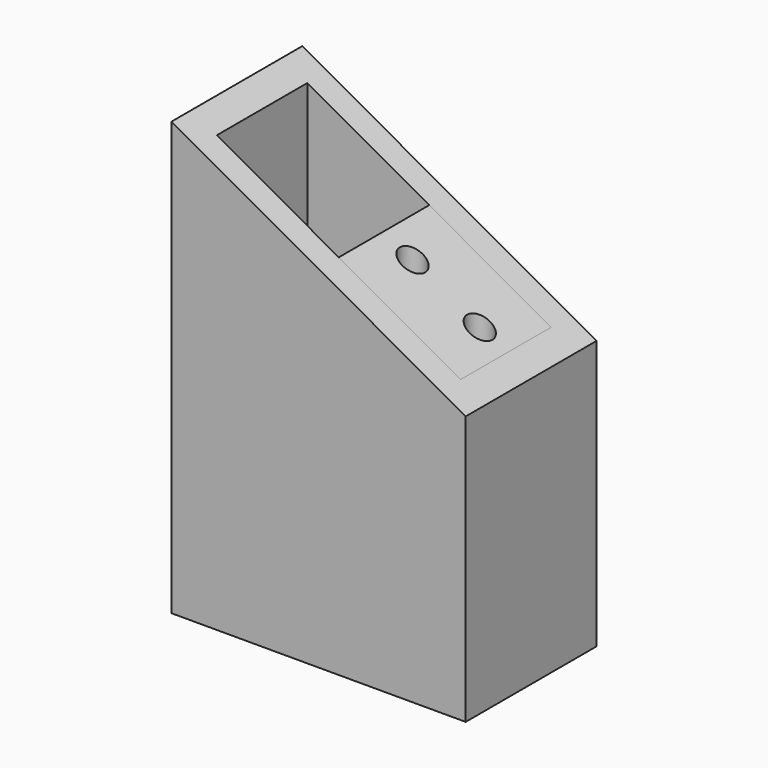
from build123d import *

# Parameters (mm, degrees)
F0_W     = 35
F0_H     = 19.45
F0_W_2   = 29
F0_H_2   = 13.45
F1_DEPTH = 51.5
F3_DEPTH = 25
F4_W     = 16.598594
F4_H     = 13.45
F4_R     = 1.5
F5_DEPTH = 3
F6_R     = 1.5
F7_DEPTH = 46.3


with BuildPart() as f1:
    # F0 (on Top) → F1 (new body)
    with BuildSketch(Plane.XY):
        with Locations((-37.743293, 0.261565)):
            Rectangle(F0_W, F0_H)
        with Locations((-37.743293, 0.261565)):
            Rectangle(F0_W_2, F0_H_2, mode=Mode.SUBTRACT)
    extrude(amount=F1_DEPTH)

    # F2 (on face) → F3 (cut)
    with BuildSketch(Plane.XZ.offset(9.463435)):
        Polygon((-20.243293, 51.5), (-55.243293, 51.5), (-20.243293, 32), align=None)
    extrude(amount=-F3_DEPTH, mode=Mode.SUBTRACT)

    # F4 (on face) → F5 (join)
    with BuildSketch(Plane(origin=(8.810147, 0, 15.813084), x_dir=(0.873568, 0, -0.486702), z_dir=(0.486702, 0, 0.873568))):
        with Locations((-44.99185, 0.261565)):
            Rectangle(F4_W, F4_H)
        with Locations((-49.282474, 0.261565)):
            Circle(F4_R, mode=Mode.SUBTRACT)
        with Locations((-41.720062, 0)):
            Circle(F4_R, mode=Mode.SUBTRACT)
        Polygon((-35.897397, 6.986565), (-36.692553, 6.986565), (-36.692553, -6.463435), (-35.849709, -6.463435), align=None)
        with Locations((-41.720062, 0)):
            Circle(F4_R)
        with Locations((-49.282474, 0.261565)):
            Circle(F4_R)
    extrude(amount=-F5_DEPTH)

    # F6 (on face) → F7 (cut)
    with BuildSketch(Plane(origin=(0, 0, 0), x_dir=(1, 0, 0), z_dir=(0, 0, -1))):
        with Locations((-26.34857, -0.261565)):
            Circle(F6_R)
        with Locations((-34.34857, -0.261565)):
            Circle(F6_R)
    extrude(amount=-F7_DEPTH, mode=Mode.SUBTRACT)


solid = f1.part
